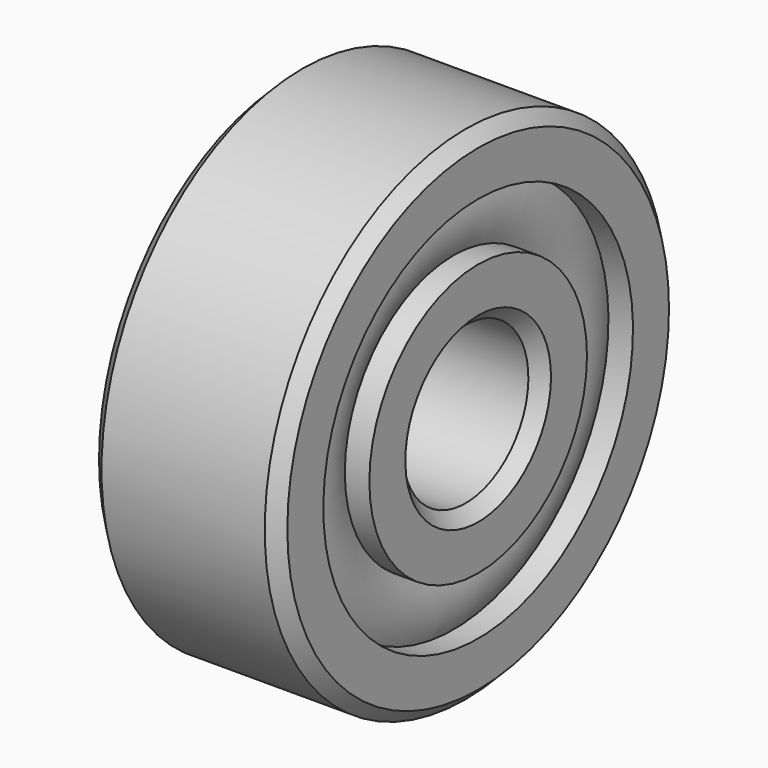
from build123d import *

# Parameters (mm, degrees)
F3_SIZE = 0.8


with BuildPart() as f2:
    # F1 (on Front) → F2 (revolve)
    with BuildSketch(Plane.XZ):
        with BuildLine():
            Line((4.4360893689, 12.3333333333), (6, 12.3333333333))
            Line((6, 12.3333333333), (6, 16))
            Line((6, 16), (-6, 16))
            Line((-6, 16), (-6, 12.3333333333))
            Line((-6, 12.3333333333), (-4.4360893689, 12.3333333333))
            ThreePointArc((-4.4360893689, 12.3333333333), (-4.8, 10.5), (-4.4360893689, 8.6666666667))
            Line((-4.4360893689, 8.6666666667), (-6, 8.6666666667))
            Line((-6, 8.6666666667), (-6, 5))
            Line((-6, 5), (6, 5))
            Line((6, 5), (6, 8.6666666667))
            Line((6, 8.6666666667), (4.4360893689, 8.6666666667))
            ThreePointArc((4.4360893689, 8.6666666667), (4.8, 10.5), (4.4360893689, 12.3333333333))
        make_face()
    revolve(axis=Axis((18.8289619982, 0, 0), (1, 0, 0)))

    # F3
    f3_edges = [f2.edges().sort_by_distance(p)[0] for p in [
        (-6, 0, -16),
        (6, 0, -16),
        (6, 0, -5),
        (-6, 0, -5),
    ]]
    chamfer(f3_edges, length=F3_SIZE)


solid = f2.part
